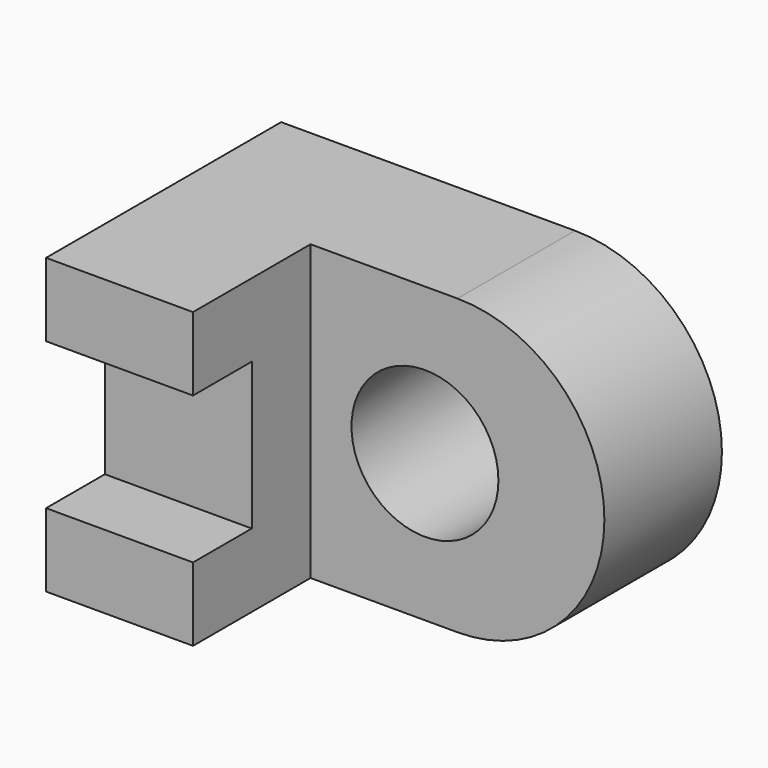
from build123d import *

# Parameters (mm, degrees)
F1_DEPTH = 101.6
F2_W     = 88.9
F2_H     = 12.7
F3_DEPTH = 25.4
F5_DEPTH = 25.4
F6_R     = 6.35
F7_DEPTH = 25.4


with BuildPart() as f1:
    # F0 (on Right) → F1 (new body)
    with BuildSketch(Plane.YZ):
        Polygon((0, 6.35), (0, 0), (25.4, 0), (25.4, 25.4), (0, 25.4), (0, 19.05), (6.35, 19.05), (6.35, 6.35), align=None)
    extrude(amount=F1_DEPTH)

    # F2 (on face) → F3 (cut)
    with BuildSketch(Plane.XY.offset(25.4)):
        with Locations((57.15, 6.35)):
            Rectangle(F2_W, F2_H)
    extrude(amount=-F3_DEPTH, mode=Mode.SUBTRACT)

    # F4 (on face) → F5 (cut)
    with BuildSketch(Plane.XZ.offset(-12.7)):
        with BuildLine():
            ThreePointArc((25.4, 25.4), (38.1, 12.7), (25.4, 0))
            Line((25.4, 0), (101.6, 0))
            Line((101.6, 0), (101.6, 25.4))
            Line((101.6, 25.4), (25.4, 25.4))
        make_face()
    extrude(amount=-F5_DEPTH, mode=Mode.SUBTRACT)

    # F6 (on face) → F7 (cut)
    with BuildSketch(Plane.XZ.offset(-12.7)):
        with Locations((22.590494, 12.7)):
            Circle(F6_R)
    extrude(amount=-F7_DEPTH, mode=Mode.SUBTRACT)


solid = f1.part
